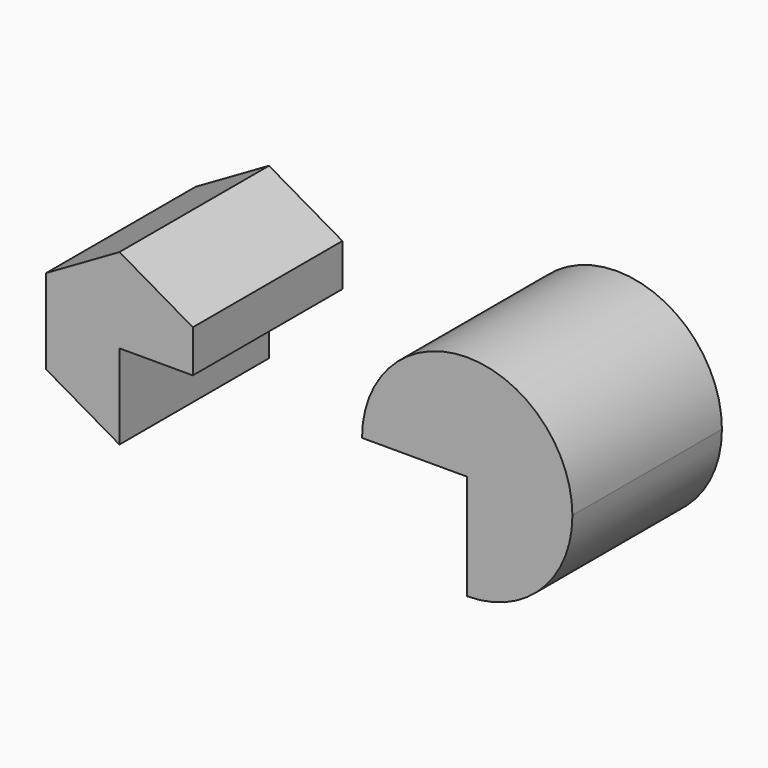
from build123d import *

# Parameters (mm, degrees)
F1_DEPTH = 12.7


with BuildPart() as f1:
    # F0 (on Front) → F1 (new body, symmetric)
    with BuildSketch(Plane.XZ):
        Polygon((-57.230014, 28.124639), (-47.25714, 22.366797), (-47.25714, 33.88248), (-37.284266, 33.88248), (-37.284266, 39.640322), (-47.25714, 45.398163), (-57.230014, 39.640322), align=None)
        with BuildLine():
            Line((0, 33.88248), (0, 19.588333))
            ThreePointArc((0, 19.588333), (10.107488, 23.774992), (14.294147, 33.88248))
            ThreePointArc((14.294147, 33.88248), (14.294135, 33.901371), (14.294097, 33.920262))
            ThreePointArc((14.294097, 33.920262), (-0.018891, 48.176615), (-14.294147, 33.88248))
            Line((-14.294147, 33.88248), (0, 33.88248))
        make_face()
    extrude(amount=F1_DEPTH, both=True)


solid = f1.part
